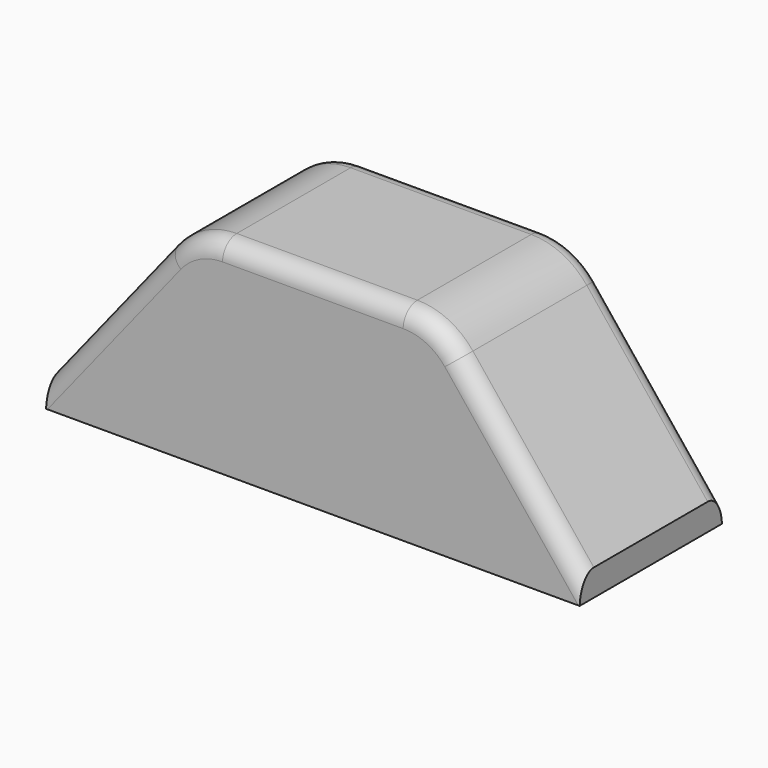
from build123d import *

# Parameters (mm, degrees)
BOX023_W             = 30
BOX023_H             = 10
BOX023_DEPTH         = 11.5
CHAMFER019_1_SIZE2   = 8
CHAMFER019_1_SIZE    = 10
CHAMFER019_2_SIZE2   = 8
CHAMFER019_2_SIZE    = 10
FILLET002008005015_R = 4
FILLET002008005016_R = 1


with BuildPart() as part:
    # Box023 → Box023 (new body)
    with BuildSketch(Plane(origin=(80, 5, 3), x_dir=(1, 0, 0), z_dir=(0, 0, 1))):
        with Locations((15, 5)):
            Rectangle(BOX023_W, BOX023_H)
    extrude(amount=BOX023_DEPTH)

    # Chamfer019 1
    chamfer019_1_edges = [part.edges().sort_by_distance(p)[0] for p in [
        (110, 10, 14.5),
    ]]
    chamfer019_1_side = part.faces().sort_by_distance((110, 10, 8.75))[0]
    chamfer(chamfer019_1_edges, length=CHAMFER019_1_SIZE, length2=CHAMFER019_1_SIZE2, reference=chamfer019_1_side)

    # Chamfer019 2
    chamfer019_2_edges = [part.edges().sort_by_distance(p)[0] for p in [
        (80, 10, 14.5),
    ]]
    chamfer019_2_side = part.faces().sort_by_distance((80, 10, 8.75))[0]
    chamfer(chamfer019_2_edges, length=CHAMFER019_2_SIZE, length2=CHAMFER019_2_SIZE2, reference=chamfer019_2_side)

    # Fillet002008005015
    fillet002008005015_edges = [part.edges().sort_by_distance(p)[0] for p in [
        (88, 10, 14.5),
        (102, 10, 14.5),
    ]]
    fillet(fillet002008005015_edges, radius=FILLET002008005015_R)

    # Fillet002008005016
    fillet002008005016_edges = [part.edges().sort_by_distance(p)[0] for p in [
        (83.399512, 5, 8.74939),
        (88.189744, 5, 14.105213),
        (95, 5, 14.5),
        (101.810256, 5, 14.105213),
        (106.600488, 5, 8.74939),
        (83.399512, 15, 8.74939),
        (88.189744, 15, 14.105213),
        (95, 15, 14.5),
        (101.810256, 15, 14.105213),
        (106.600488, 15, 8.74939),
    ]]
    fillet(fillet002008005016_edges, radius=FILLET002008005016_R)


with BuildPart() as part_1:
    # Fillet002008005016 placement: moved
    add(part.part.moved(Location((0, 0, 7))))


solid = part_1.part
